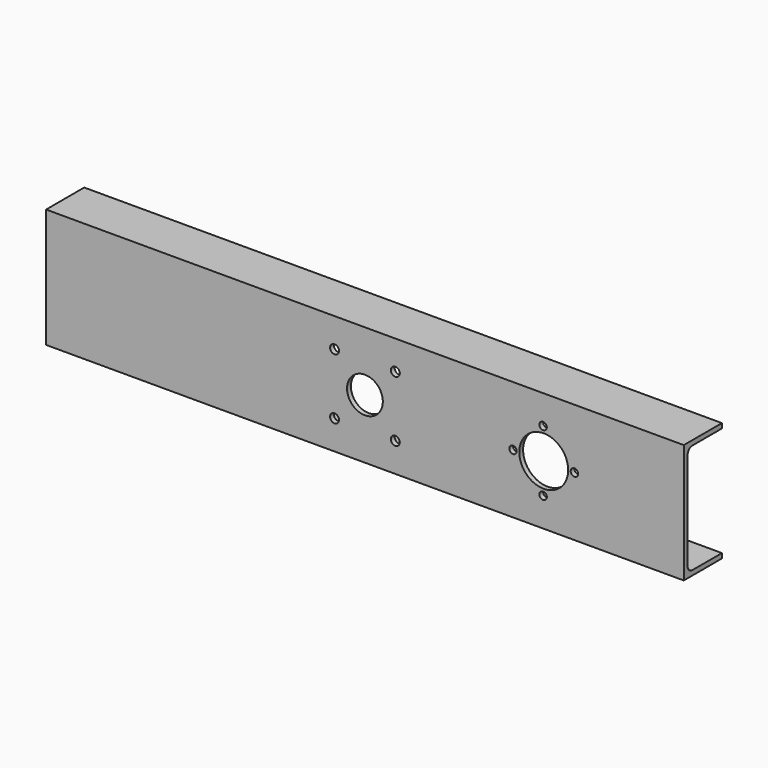
from build123d import *

# Parameters (mm, degrees)
F0_W     = 1070
F0_H     = 200
F1_DEPTH = 80
F2_T     = -8
F3_D     = 60
F4_R     = 10
F5_D     = 15
F6_D     = 82
F7_D     = 12.5


with BuildPart() as f1:
    # F0 (on Front) → F1 (new body)
    with BuildSketch(Plane.XZ):
        Rectangle(F0_W, F0_H)
    extrude(amount=F1_DEPTH)

    # F2
    f2_openings = [f1.faces().sort_by_distance(p)[0] for p in [
        (0, 0, 0),
        (-535, -40, 0),
        (535, -40, 0),
    ]]
    offset(amount=F2_T, openings=f2_openings)

    # F3 (through all)
    with Locations(Plane(origin=(0, 0, 0), x_dir=(1, 0, 0), z_dir=(0, 1, 0))):
        with Locations((0, 0)):
            Hole(F3_D / 2)

    # F4
    f4_edges = [f1.edges().sort_by_distance(p)[0] for p in [
        (0, -72, -92),
        (0, -72, 92),
    ]]
    fillet(f4_edges, radius=F4_R)

    # F5 (through all)
    with Locations(Plane(origin=(0, 0, 0), x_dir=(1, 0, 0), z_dir=(0, 1, 0))):
        with Locations((-51, -51), (51, -51), (51, 51), (-51, 51)):
            Hole(F5_D / 2)

    # F6 (through all)
    with Locations(Plane(origin=(0, 0, 0), x_dir=(1, 0, 0), z_dir=(0, 1, 0))):
        with Locations((300, 0)):
            Hole(F6_D / 2)

    # F7 (through all)
    with Locations(Plane(origin=(0, 0, 0), x_dir=(1, 0, 0), z_dir=(0, 1, 0))):
        with Locations((248.5, 0.2018298983), (298.9653646946, -51.5), (351.5, 0.2018298983), (298.9653646946, 51.5)):
            Hole(F7_D / 2)


solid = f1.part
